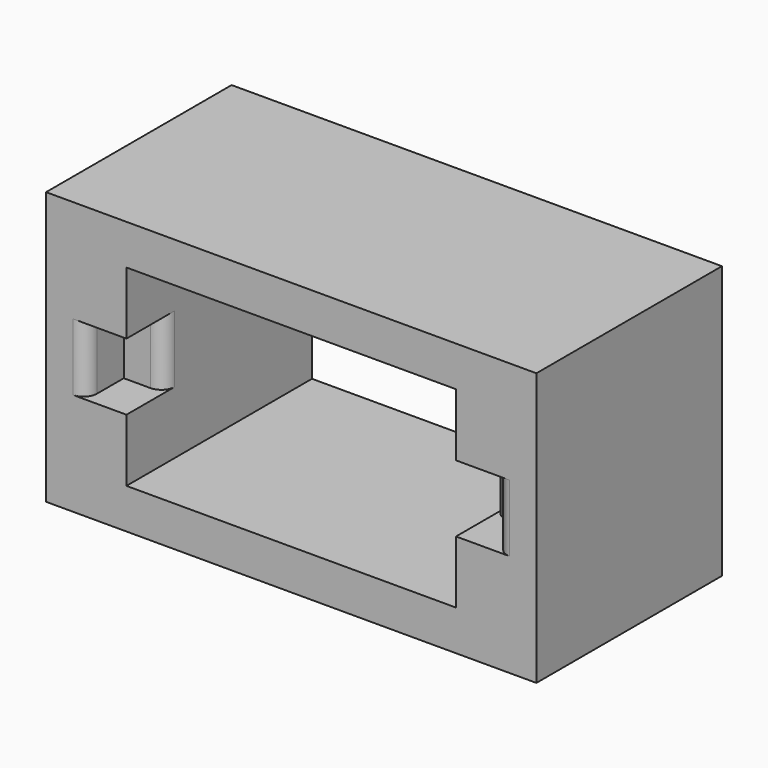
from build123d import *

# Parameters (mm, degrees)
SKETCH037_W             = 36.6
SKETCH037_H             = 20.35
SKETCH037_W_2           = 24.6
SKETCH037_H_2           = 14.35
PAD020_DEPTH            = 17.31
SKETCH039_R             = 0.75
POCKET013_DEPTH         = 10
SKETCH038_W             = 3
SKETCH038_H             = 5
POCKET012_DEPTH         = 3.5
FILLET015_R             = 1
FILLET018_R             = 1
FILLET016_R             = 1
FILLET017_R             = 1
BODY009_PLACEMENT_ANGLE = 180


with BuildPart() as part:
    # Sketch037 (on Face1 of ReferencePocket005) → Pad020 (new body)
    with BuildSketch(Plane.XZ):
        with Locations((11.3, 6.175)):
            Rectangle(SKETCH037_W, SKETCH037_H)
        with Locations((11.3, 6.175)):
            Rectangle(SKETCH037_W_2, SKETCH037_H_2, mode=Mode.SUBTRACT)
    extrude(amount=-PAD020_DEPTH)

    # Sketch039 (on Face10 of Pad019) → Pocket013 (cut)
    with BuildSketch(Plane(origin=(0, 19.97, 0), x_dir=(-1, 0, 0), z_dir=(0, 1, 0))):
        with Locations((-25.73, 6.175)):
            Circle(SKETCH039_R)
        with Locations((3.13, 6.175)):
            Circle(SKETCH039_R)
    extrude(amount=-POCKET013_DEPTH, mode=Mode.SUBTRACT)

    # Sketch038 (on Face4 of Pocket013) → Pocket012 (cut)
    with BuildSketch(Plane.XZ):
        with Locations((-2.5, 6.175)):
            Rectangle(SKETCH038_W, SKETCH038_H)
        with Locations((25.1, 6.175)):
            Rectangle(SKETCH038_W, SKETCH038_H)
    extrude(amount=-POCKET012_DEPTH, mode=Mode.SUBTRACT)

    # Fillet015
    fillet015_edges = [part.edges().sort_by_distance(p)[0] for p in [
        (26.6, 0, 6.175),
    ]]
    fillet(fillet015_edges, radius=FILLET015_R)

    # Fillet018
    fillet018_edges = [part.edges().sort_by_distance(p)[0] for p in [
        (23.6, 3.5, 6.175),
    ]]
    fillet(fillet018_edges, radius=FILLET018_R)

    # Fillet016
    fillet016_edges = [part.edges().sort_by_distance(p)[0] for p in [
        (-1, 3.5, 6.175),
    ]]
    fillet(fillet016_edges, radius=FILLET016_R)

    # Fillet017
    fillet017_edges = [part.edges().sort_by_distance(p)[0] for p in [
        (-4, 0, 6.175),
    ]]
    fillet(fillet017_edges, radius=FILLET017_R)


with BuildPart() as part_1:
    # Body009 placement: moved
    add(part.part.moved(Location((215.339996, 126.400008, -13.43))).rotate(Axis((215.339996, 126.400008, -13.43), (0, 1, 0)), BODY009_PLACEMENT_ANGLE))


solid = part_1.part
